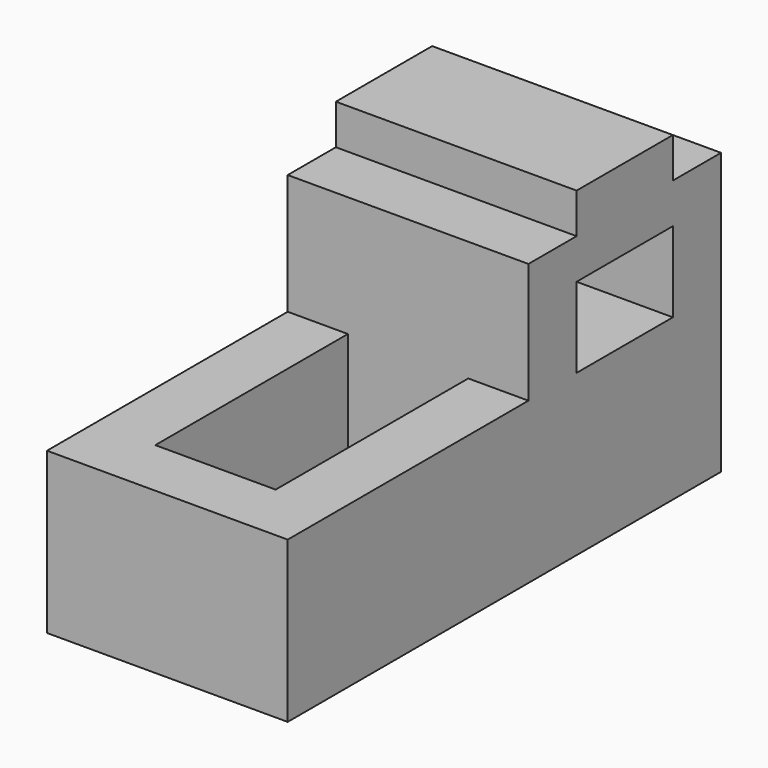
from build123d import *

# Parameters (mm, degrees)
F1_DEPTH = 1219.2
F2_W     = 609.6
F2_H     = 406.4
F3_DEPTH = 1219.2
F4_W     = 609.6
F4_H     = 1219.2
F5_DEPTH = 609.6


with BuildPart() as f1:
    # F0 (on Right) → F1 (new body)
    with BuildSketch(Plane.YZ):
        Polygon((-227.362469, 726.887877), (-227.362469, -85.912123), (2515.837531, -85.912123), (2515.837531, 1336.487877), (2211.037531, 1336.487877), (2211.037531, 1539.687877), (1601.437531, 1539.687877), (1601.437531, 1336.487877), (1296.637531, 1336.487877), (1296.637531, 726.887877), align=None)
    extrude(amount=F1_DEPTH)

    # F2 (on face) → F3 (cut)
    with BuildSketch(Plane.YZ.offset(1219.2)):
        with Locations((1906.237531, 930.087877)):
            Rectangle(F2_W, F2_H)
    extrude(amount=-F3_DEPTH, mode=Mode.SUBTRACT)

    # F4 (on face) → F5 (cut)
    with BuildSketch(Plane.XY.offset(726.887877)):
        with Locations((609.6, 687.037531)):
            Rectangle(F4_W, F4_H)
    extrude(amount=-F5_DEPTH, mode=Mode.SUBTRACT)


solid = f1.part
